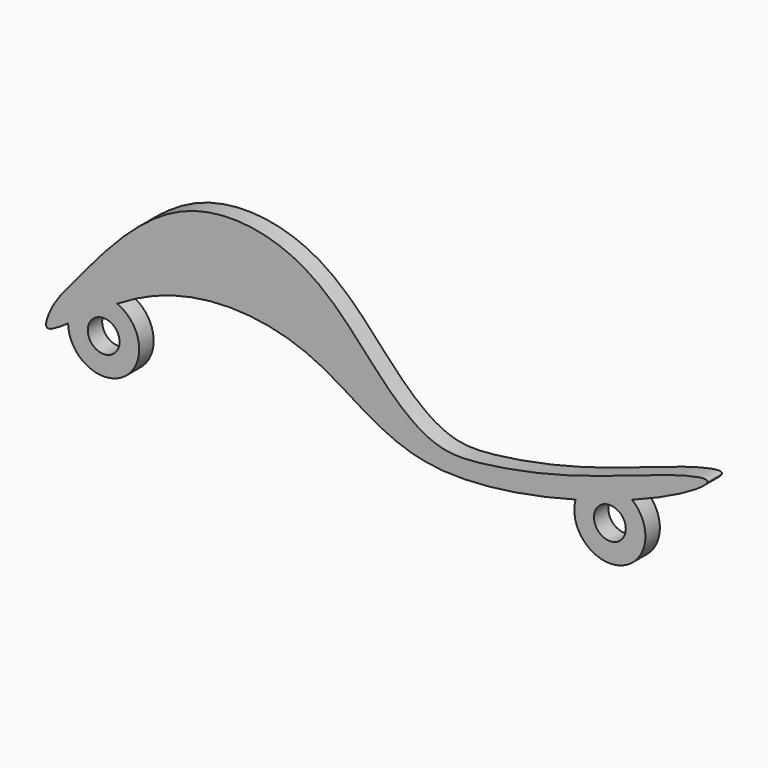
from build123d import *

# Parameters (mm, degrees)
F0_R     = 4.05
F1_DEPTH = 4.6


with BuildPart() as f1:
    # F0 (on Front) → F1 (new body)
    with BuildSketch(Plane.XZ):
        with BuildLine():
            add(Edge.make_bspline(
                [(-95.6500623996, 9.0602656722), (-92.4187230117, 11.3108970642), (-88.0348199361, 14.5727958506), (-83.173100013, 17.5256325183)],
                knots=[0.0274843125, 0.0274843125, 0.0274843125, 0.0274843125, 0.0596710968, 0.0596710968, 0.0596710968, 0.0596710968], degree=3))
            ThreePointArc((-95.6500623996, 9.0602656722), (-81.5193868871, 1.6607760946), (-83.173100013, 17.5256325183))
        make_face()
        with Locations((-86.6005048175, 9.1497506957)):
            Circle(F0_R, mode=Mode.SUBTRACT)
        with BuildLine():
            add(Edge.make_bspline(
                [(-100.9865179658, 6.3289660029), (-100.3281599428, 5.9539966584), (-98.4093048491, 7.1384503103), (-95.6500623996, 9.0602656722)],
                knots=[0, 0, 0, 0, 0.0274843125, 0.0274843125, 0.0274843125, 0.0274843125], degree=3))
            add(Edge.make_bspline(
                [(-95.6500623996, 9.0602656722), (-92.4187230117, 11.3108970642), (-88.0348199361, 14.5727958506), (-83.173100013, 17.5256325183)],
                knots=[0.0274843125, 0.0274843125, 0.0274843125, 0.0274843125, 0.0596710968, 0.0596710968, 0.0596710968, 0.0596710968], degree=3))
            add(Edge.make_bspline(
                [(-83.173100013, 17.5256325183), (-80.7400293298, 19.0033935663), (-63.9747422847, 28.2003079843), (-31.72799794, 25.9422852705), (-10.6392381399, 3.1174342228), (20.7474714826, 8.0554976096), (33.591606821, 11.5793951116)],
                knots=[0.0596710968, 0.0596710968, 0.0596710968, 0.0596710968, 0.0757791249, 0.1654615319, 0.2462987782, 0.3117343129, 0.3117343129, 0.3117343129, 0.3117343129], degree=3))
            add(Edge.make_bspline(
                [(33.591606821, 11.5793951116), (38.6679709904, 12.9721386902), (43.5573892137, 14.5702674364), (47.9597123027, 16.2191275089)],
                knots=[0.3117343129, 0.3117343129, 0.3117343129, 0.3117343129, 0.3375962799, 0.3375962799, 0.3375962799, 0.3375962799], degree=3))
            add(Edge.make_bspline(
                [(47.9597123027, 16.2191275089), (50.9373443289, 17.3343792656), (61.6206033866, 21.7494013011), (70.6724412347, 27.9176068504), (58.3874971944, 25.7382909814), (33.0966114651, 15.8730632325), (10.8135002128, 11.6736651531), (-2.8357350804, 10.9816583368), (-17.1042634225, 22.7204702994), (-34.2191697922, 45.1920904896), (-69.7396741916, 49.4126791198), (-93.1908172209, 19.6957368461), (-99.6160943969, 12.6688196647), (-101.7269680207, 6.7506910553), (-100.9865179658, 6.3289660029)],
                knots=[0.3375962799, 0.3375962799, 0.3375962799, 0.3375962799, 0.355088731, 0.4054331057, 0.4410568034, 0.5161596585, 0.5834520926, 0.6323689927, 0.6900040534, 0.7633024594, 0.8412866662, 0.9235942142, 0.9690886114, 1, 1, 1, 1], degree=3))
        make_face()
        with BuildLine():
            add(Edge.make_bspline(
                [(33.591606821, 11.5793951116), (38.6679709904, 12.9721386902), (43.5573892137, 14.5702674364), (47.9597123027, 16.2191275089)],
                knots=[0.3117343129, 0.3117343129, 0.3117343129, 0.3117343129, 0.3375962799, 0.3375962799, 0.3375962799, 0.3375962799], degree=3))
            ThreePointArc((33.591606821, 11.5793951116), (45.0903794943, 0.5376391724), (47.9597123027, 16.2191275089))
        make_face()
        with Locations((42.3093661666, 9.1497506946)):
            Circle(F0_R, mode=Mode.SUBTRACT)
    extrude(amount=F1_DEPTH)


solid = f1.part
